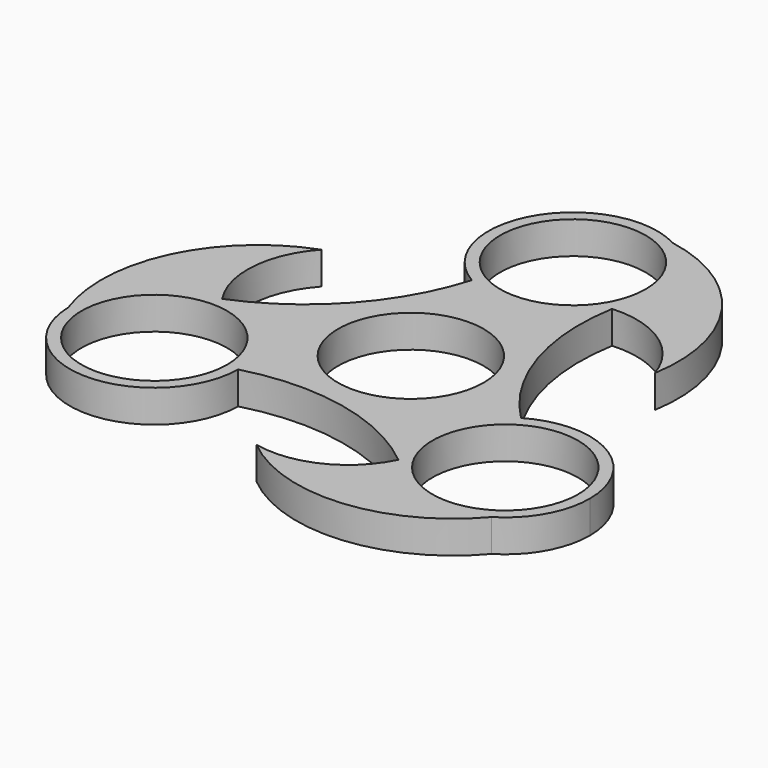
from build123d import *

# Parameters (mm, degrees)
F0_R     = 11.2
F1_DEPTH = 5


with BuildPart() as f1:
    # F0 (on Top) → F1 (new body)
    with BuildSketch(Plane.XY):
        with BuildLine():
            ThreePointArc((11.243032, 24.633988), (12.553076, 27.781021), (13, 31.160414))
            ThreePointArc((13, 31.160414), (11.172924, 37.806147), (6.205266, 42.58384))
            ThreePointArc((6.205266, 42.58384), (-11.321974, 37.548911), (-6.570071, 19.942831))
            ThreePointArc((-6.570071, 19.942831), (3.310722, 18.589053), (11.243032, 24.633988))
        make_face()
        with Locations((0, 31.160414)):
            Circle(F0_R, mode=Mode.SUBTRACT)
        with BuildLine():
            ThreePointArc((6.205266, 42.58384), (11.172924, 37.806147), (13, 31.160414))
            ThreePointArc((13, 31.160414), (12.553076, 27.781021), (11.243032, 24.633988))
            ThreePointArc((11.243032, 24.633988), (20.16491, 22.206844), (25.685808, 14.789929))
            ThreePointArc((25.685808, 14.789929), (21.662594, 32.693926), (6.205266, 42.58384))
        make_face()
        with BuildLine():
            ThreePointArc((20.433129, -4.352398), (12.296612, 9.017977), (11.243032, 24.633988))
            ThreePointArc((11.243032, 24.633988), (3.310722, 18.589053), (-6.570071, 19.942831))
            ThreePointArc((-6.570071, 19.942831), (-14.190564, 6.359224), (-26.944847, -2.580271))
            ThreePointArc((-26.944847, -2.580271), (-17.778886, -6.402277), (-13.98571, -15.580207))
            ThreePointArc((-13.98571, -15.580207), (-13.985915, -15.653237), (-13.98653, -15.726265))
            ThreePointArc((-13.98653, -15.726265), (1.62392, -15.259159), (15.697868, -22.028821))
            ThreePointArc((15.697868, -22.028821), (14.428475, -12.216303), (20.433129, -4.352398))
        make_face()
        Circle(F0_R, mode=Mode.SUBTRACT)
        with BuildLine():
            ThreePointArc((39.98571, -15.580207), (33.459366, -4.306708), (20.433129, -4.352398))
            ThreePointArc((20.433129, -4.352398), (14.428475, -12.216303), (15.697868, -22.028821))
            ThreePointArc((15.697868, -22.028821), (15.707601, -22.036816), (15.717332, -22.044815))
            ThreePointArc((15.717332, -22.044815), (15.714954, -22.049655), (15.712573, -22.054494))
            ThreePointArc((15.712573, -22.054494), (23.767322, -28.175523), (33.771118, -26.668861))
            ThreePointArc((33.771118, -26.668861), (38.326131, -21.935901), (39.98571, -15.580207))
        make_face()
        with Locations((26.98571, -15.580207)):
            Circle(F0_R, mode=Mode.SUBTRACT)
        with BuildLine():
            ThreePointArc((-13.98571, -15.580207), (-17.778886, -6.402277), (-26.944847, -2.580271))
            ThreePointArc((-26.944847, -2.580271), (-36.271667, -6.48235), (-39.982088, -15.88706))
            ThreePointArc((-39.982088, -15.88706), (-26.9053, -28.579958), (-13.98653, -15.726265))
            ThreePointArc((-13.98653, -15.726265), (-13.985915, -15.653237), (-13.98571, -15.580207))
        make_face()
        with Locations((-26.98571, -15.580207)):
            Circle(F0_R, mode=Mode.SUBTRACT)
        with BuildLine():
            ThreePointArc((-39.982088, -15.88706), (-36.271667, -6.48235), (-26.944847, -2.580271))
            ThreePointArc((-26.944847, -2.580271), (-29.303818, 6.359874), (-25.641029, 14.849569))
            ThreePointArc((-25.641029, 14.849569), (-39.12779, 2.428274), (-39.982088, -15.88706))
        make_face()
        with BuildLine():
            ThreePointArc((15.717332, -22.044815), (15.707601, -22.036816), (15.697868, -22.028821))
            ThreePointArc((15.697868, -22.028821), (15.705213, -22.041661), (15.712573, -22.054494))
            ThreePointArc((15.712573, -22.054494), (15.714954, -22.049655), (15.717332, -22.044815))
        make_face()
        with BuildLine():
            ThreePointArc((-0.029261, -29.630596), (17.47986, -35.099075), (33.771118, -26.668861))
            ThreePointArc((33.771118, -26.668861), (23.767322, -28.175523), (15.712573, -22.054494))
            ThreePointArc((15.712573, -22.054494), (9.149566, -28.560156), (-0.029261, -29.630596))
        make_face()
    extrude(amount=F1_DEPTH)


solid = f1.part
